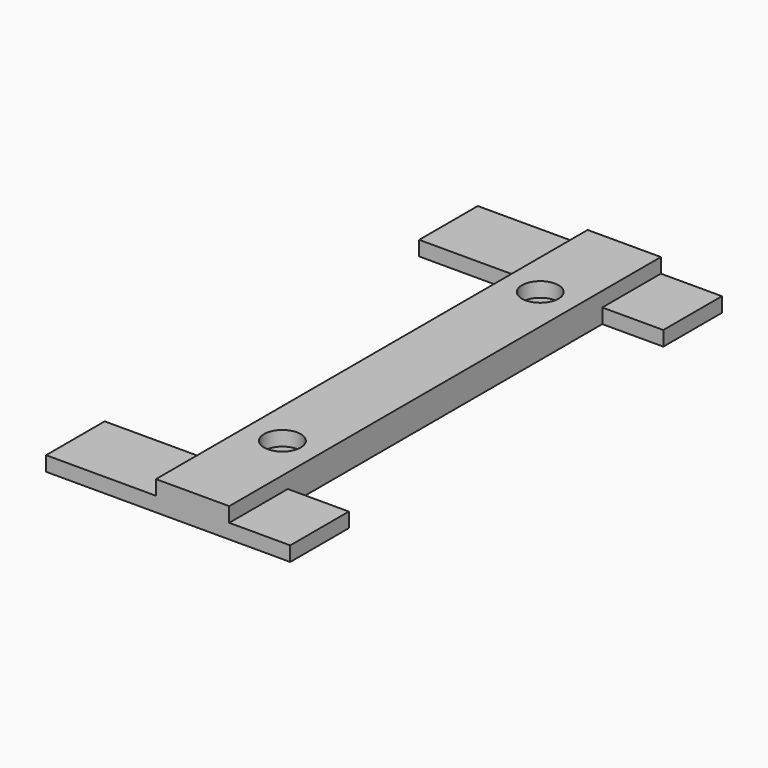
from build123d import *

# Parameters (mm, degrees)
F0_W     = 7.5
F0_H     = 15
F0_W_2   = 22.5
F0_W_3   = 12.5
F1_DEPTH = 3
F2_R     = 3.75
F3_DEPTH = 3


with BuildPart() as f1:
    # F0 (on Top) → F1 (new body)
    with BuildSketch(Plane.XY):
        with Locations((-59.2723089457, 57.7941831946)):
            Rectangle(F0_W, F0_H)
        with BuildLine():
            Line((-55.5223089457, -18.4558168054), (-55.5223089457, 40.0441831946))
            ThreePointArc((-55.5223089457, 40.0441831946), (-59.2723089457, 43.7941831946), (-55.5223089457, 47.5441831946))
            Line((-55.5223089457, 47.5441831946), (-55.5223089457, 50.2941831946))
            Line((-55.5223089457, 50.2941831946), (-63.0223089457, 50.2941831946))
            Line((-63.0223089457, 50.2941831946), (-63.0223089457, -30.2058168054))
            Line((-63.0223089457, -30.2058168054), (-55.5223089457, -30.2058168054))
            Line((-55.5223089457, -30.2058168054), (-55.5223089457, -25.9558168054))
            ThreePointArc((-55.5223089457, -25.9558168054), (-59.2723089457, -22.2058168054), (-55.5223089457, -18.4558168054))
        make_face()
        with Locations((-59.2723089457, -37.7058168054)):
            Rectangle(F0_W, F0_H)
        with Locations((-51.7723089457, 57.7941831946)):
            Rectangle(F0_W, F0_H)
        with BuildLine():
            ThreePointArc((-51.7723089457, 43.7941831946), (-52.8706585162, 41.1425327652), (-55.5223089457, 40.0441831946))
            Line((-55.5223089457, 40.0441831946), (-55.5223089457, -18.4558168054))
            ThreePointArc((-55.5223089457, -18.4558168054), (-52.8706585162, -19.5541663759), (-51.7723089457, -22.2058168054))
            ThreePointArc((-51.7723089457, -22.2058168054), (-52.8706585162, -24.8574672348), (-55.5223089457, -25.9558168054))
            Line((-55.5223089457, -25.9558168054), (-55.5223089457, -30.2058168054))
            Line((-55.5223089457, -30.2058168054), (-48.0223089457, -30.2058168054))
            Line((-48.0223089457, -30.2058168054), (-48.0223089457, 50.2941831946))
            Line((-48.0223089457, 50.2941831946), (-55.5223089457, 50.2941831946))
            Line((-55.5223089457, 50.2941831946), (-55.5223089457, 47.5441831946))
            ThreePointArc((-55.5223089457, 47.5441831946), (-52.8706585162, 46.4458336241), (-51.7723089457, 43.7941831946))
        make_face()
        with Locations((-51.7723089457, -37.7058168054)):
            Rectangle(F0_W, F0_H)
        with BuildLine():
            ThreePointArc((-51.7723089457, -22.2058168054), (-52.8706585162, -19.5541663759), (-55.5223089457, -18.4558168054))
            Line((-55.5223089457, -18.4558168054), (-55.5223089457, -20.7058168054))
            ThreePointArc((-55.5223089457, -20.7058168054), (-54.4616487739, -21.1451566336), (-54.0223089457, -22.2058168054))
            ThreePointArc((-54.0223089457, -22.2058168054), (-54.4616487739, -23.2664769771), (-55.5223089457, -23.7058168054))
            Line((-55.5223089457, -23.7058168054), (-55.5223089457, -25.9558168054))
            ThreePointArc((-55.5223089457, -25.9558168054), (-52.8706585162, -24.8574672348), (-51.7723089457, -22.2058168054))
        make_face()
        with BuildLine():
            Line((-55.5223089457, -20.7058168054), (-55.5223089457, -18.4558168054))
            ThreePointArc((-55.5223089457, -18.4558168054), (-59.2723089457, -22.2058168054), (-55.5223089457, -25.9558168054))
            Line((-55.5223089457, -25.9558168054), (-55.5223089457, -23.7058168054))
            ThreePointArc((-55.5223089457, -23.7058168054), (-57.0223089457, -22.2058168054), (-55.5223089457, -20.7058168054))
        make_face()
        with BuildLine():
            Line((-55.5223089457, 40.0441831946), (-55.5223089457, 42.2941831946))
            ThreePointArc((-55.5223089457, 42.2941831946), (-57.0223089457, 43.7941831946), (-55.5223089457, 45.2941831946))
            Line((-55.5223089457, 45.2941831946), (-55.5223089457, 47.5441831946))
            ThreePointArc((-55.5223089457, 47.5441831946), (-59.2723089457, 43.7941831946), (-55.5223089457, 40.0441831946))
        make_face()
        with BuildLine():
            ThreePointArc((-54.0223089457, 43.7941831946), (-54.4616487739, 42.7335230229), (-55.5223089457, 42.2941831946))
            Line((-55.5223089457, 42.2941831946), (-55.5223089457, 40.0441831946))
            ThreePointArc((-55.5223089457, 40.0441831946), (-52.8706585162, 41.1425327652), (-51.7723089457, 43.7941831946))
            ThreePointArc((-51.7723089457, 43.7941831946), (-52.8706585162, 46.4458336241), (-55.5223089457, 47.5441831946))
            Line((-55.5223089457, 47.5441831946), (-55.5223089457, 45.2941831946))
            ThreePointArc((-55.5223089457, 45.2941831946), (-54.4616487739, 44.8548433664), (-54.0223089457, 43.7941831946))
        make_face()
        with Locations((-74.2723089457, -37.7058168054)):
            Rectangle(F0_W_2, F0_H)
        with Locations((-41.7723089457, -37.7058168054)):
            Rectangle(F0_W_3, F0_H)
        with BuildLine():
            ThreePointArc((-51.7723089457, 43.7941831946), (-52.8706585162, 41.1425327652), (-55.5223089457, 40.0441831946))
            Line((-55.5223089457, 40.0441831946), (-55.5223089457, -18.4558168054))
            ThreePointArc((-55.5223089457, -18.4558168054), (-52.8706585162, -19.5541663759), (-51.7723089457, -22.2058168054))
            ThreePointArc((-51.7723089457, -22.2058168054), (-52.8706585162, -24.8574672348), (-55.5223089457, -25.9558168054))
            Line((-55.5223089457, -25.9558168054), (-55.5223089457, -30.2058168054))
            Line((-55.5223089457, -30.2058168054), (-48.0223089457, -30.2058168054))
            Line((-48.0223089457, -30.2058168054), (-48.0223089457, 50.2941831946))
            Line((-48.0223089457, 50.2941831946), (-55.5223089457, 50.2941831946))
            Line((-55.5223089457, 50.2941831946), (-55.5223089457, 47.5441831946))
            ThreePointArc((-55.5223089457, 47.5441831946), (-52.8706585162, 46.4458336241), (-51.7723089457, 43.7941831946))
        make_face()
        with BuildLine():
            Line((-55.5223089457, -18.4558168054), (-55.5223089457, 40.0441831946))
            ThreePointArc((-55.5223089457, 40.0441831946), (-59.2723089457, 43.7941831946), (-55.5223089457, 47.5441831946))
            Line((-55.5223089457, 47.5441831946), (-55.5223089457, 50.2941831946))
            Line((-55.5223089457, 50.2941831946), (-63.0223089457, 50.2941831946))
            Line((-63.0223089457, 50.2941831946), (-63.0223089457, -30.2058168054))
            Line((-63.0223089457, -30.2058168054), (-55.5223089457, -30.2058168054))
            Line((-55.5223089457, -30.2058168054), (-55.5223089457, -25.9558168054))
            ThreePointArc((-55.5223089457, -25.9558168054), (-59.2723089457, -22.2058168054), (-55.5223089457, -18.4558168054))
        make_face()
        with Locations((-74.2723089457, 57.7941831946)):
            Rectangle(F0_W_2, F0_H)
        with Locations((-41.7723089457, 57.7941831946)):
            Rectangle(F0_W_3, F0_H)
    extrude(amount=F1_DEPTH)

    # F2 (on face) → F3 (join)
    with BuildSketch(Plane.XY.offset(3)):
        Polygon((-48.0223089457, 50.2941831946), (-48.0223089457, 65.2941831946), (-63.0223089457, 65.2941831946), (-63.0223089457, 50.2941831946), (-63.0223089457, -30.2058168054), (-63.0223089457, -45.2058168054), (-48.0223089457, -45.2058168054), (-48.0223089457, -30.2058168054), align=None)
        with Locations((-55.5223089457, -22.2058168054)):
            Circle(F2_R, mode=Mode.SUBTRACT)
        with Locations((-55.5223089457, 43.7941831946)):
            Circle(F2_R, mode=Mode.SUBTRACT)
    extrude(amount=F3_DEPTH)


solid = f1.part
